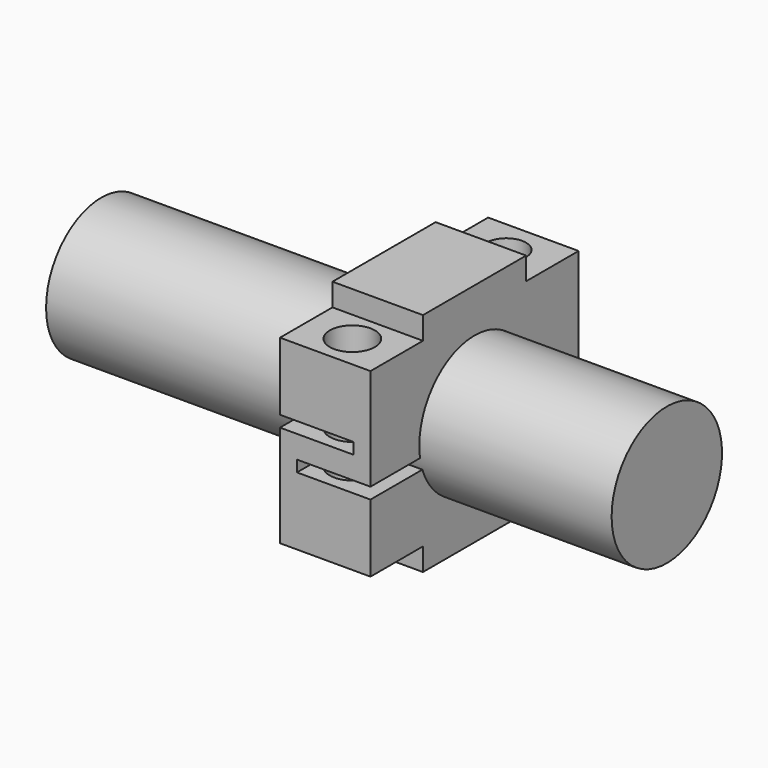
from build123d import *

# Parameters (mm, degrees)
F1_DEPTH      = 11.5
F2_R          = 1.75
F2_R_2        = 1.995633
F3_DEPTH      = 20
F4_R          = 6.1
F5_DEPTH      = 12.5
F6_W          = 5.8
F6_H          = 2
F7_DEPTH      = 12.5
F8_R          = 6.1
F9_DEPTH      = 25
F9_DEPTH_BACK = 25


with BuildPart() as f1:
    # F0 (on Front) → F1 (new body, symmetric)
    with BuildSketch(Plane.XZ):
        Polygon((4, 10), (-4, 10), (-4, 2), (2.5, 2), (2.5, 1), (-4, 1), (-4, -10), (4, -10), (4, -2), (-2.5, -2), (-2.5, -1), (4, -1), align=None)
    extrude(amount=F1_DEPTH, both=True)

    # F2 (on Top) → F3 (cut, symmetric)
    with BuildSketch(Plane.XY):
        with Locations((0, 8.5)):
            Circle(F2_R)
        with Locations((0, -8.5)):
            Circle(F2_R_2)
    extrude(amount=F3_DEPTH, both=True, mode=Mode.SUBTRACT)

    # F4 (on Right) → F5 (cut, symmetric)
    with BuildSketch(Plane.YZ):
        Circle(F4_R)
    extrude(amount=F5_DEPTH, both=True, mode=Mode.SUBTRACT)

    # F6 (on Right) → F7 (cut, symmetric)
    with BuildSketch(Plane.YZ):
        with Locations((-8.6, 9)):
            Rectangle(F6_W, F6_H)
        with Locations((8.6, 9)):
            Rectangle(F6_W, F6_H)
        with Locations((8.6, -9)):
            Rectangle(F6_W, F6_H)
        with Locations((-8.6, -9)):
            Rectangle(F6_W, F6_H)
    extrude(amount=F7_DEPTH, both=True, mode=Mode.SUBTRACT)


with BuildPart() as f9:
    # F8 (on face) → F9 (new body, two sides)
    with BuildSketch(Plane(origin=(-4, 0, 0), x_dir=(0, -1, 0), z_dir=(-1, 0, 0))) as f9_sk:
        Circle(F8_R)
    extrude(amount=F9_DEPTH)
    extrude(f9_sk.sketch, amount=-F9_DEPTH_BACK)


solid = Compound([f1.part, f9.part])
